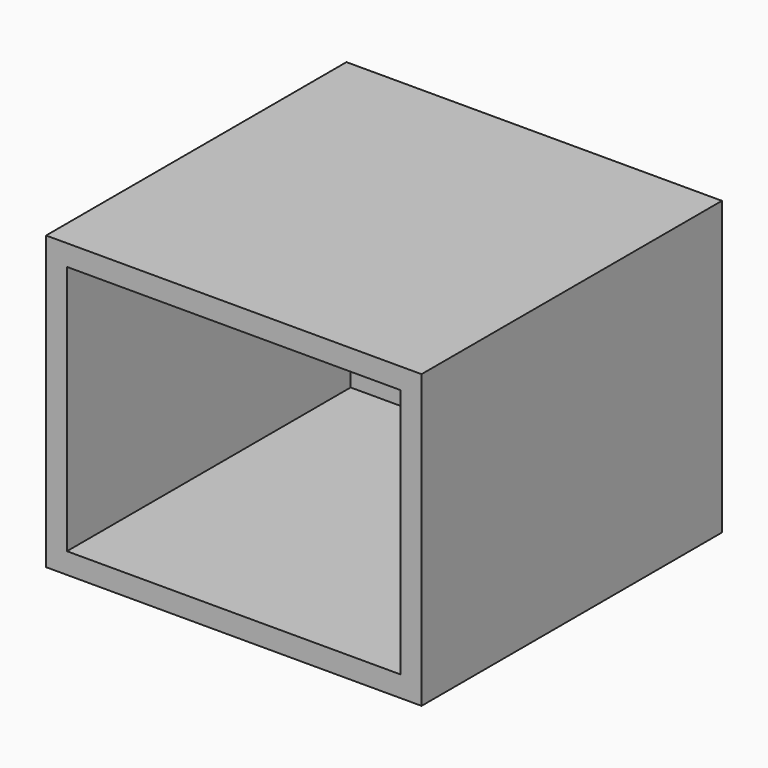
from build123d import *

# Parameters (mm, degrees)
F0_W     = 450
F0_H     = 350
F1_DEPTH = 450
F2_T     = -25
F3_R     = 4
F4_DEPTH = 450.001


with BuildPart() as f1:
    # F0 (on Front) → F1 (new body)
    with BuildSketch(Plane.XZ):
        Rectangle(F0_W, F0_H)
    extrude(amount=F1_DEPTH)

    # F2
    f2_openings = [f1.faces().sort_by_distance(p)[0] for p in [
        (0, -450, 0),
    ]]
    offset(amount=F2_T, openings=f2_openings)

    # F3 (on face) → F4 (cut, through all)
    with BuildSketch(Plane(origin=(0, 0, 0), x_dir=(-1, 0, 0), z_dir=(0, 1, 0))):
        Circle(F3_R)
    extrude(amount=-F4_DEPTH, mode=Mode.SUBTRACT)


solid = f1.part
